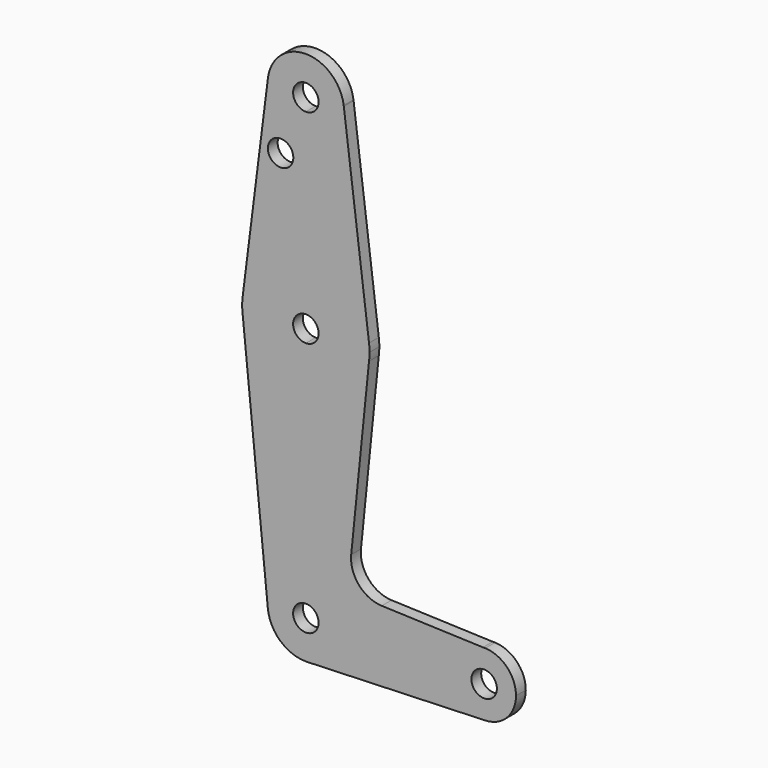
from build123d import *

# Parameters (mm, degrees)
F0_R     = 3.175
F1_DEPTH = 3.048


with BuildPart() as f1:
    # F0 (on Front) → F1 (new body)
    with BuildSketch(Plane.XZ):
        with BuildLine():
            ThreePointArc((-44.0140897063, 76.3003891978), (-41.6811967841, 68.8454978914), (-34.556706045, 65.6424640973))
            ThreePointArc((-34.556706045, 65.6424640973), (-27.8215139542, 68.4322720065), (-25.031706045, 75.1674640973))
            ThreePointArc((-25.031706045, 75.1674640973), (-25.0473120273, 75.7124874144), (-25.0940788358, 76.2557247737))
            Line((-25.0940788358, 76.2557247737), (-25.1198833338, 76.4605233061))
            ThreePointArc((-25.1198833338, 76.4605233061), (-34.637430399, 84.6921220218), (-44.0140897063, 76.3003891978))
        make_face()
        with BuildLine():
            ThreePointArc((-31.381706045, 75.1674640973), (-32.3116420147, 72.922400067), (-34.556706045, 71.9924640973))
            ThreePointArc((-34.556706045, 71.9924640973), (-36.8017700753, 77.4125281275), (-31.381706045, 75.1674640973))
        make_face(mode=Mode.SUBTRACT)
        with BuildLine():
            ThreePointArc((-25.031706045, 75.1674640973), (-27.8215139542, 68.4322720065), (-34.556706045, 65.6424640973))
            Line((-34.556706045, 65.6424640973), (-34.556706045, 40.2424640973))
            ThreePointArc((-34.556706045, 40.2424640973), (-24.0564015073, 36.2737325982), (-18.8062247641, 26.3518946002))
            Line((-18.8062247637, 26.3518946002), (-25.0940788358, 76.2557247737))
            ThreePointArc((-25.0940788358, 76.2557247737), (-25.0473120273, 75.7124874144), (-25.031706045, 75.1674640973))
        make_face()
        with BuildLine():
            Line((-34.556706045, 40.2424640973), (-34.556706045, 65.6424640973))
            ThreePointArc((-34.556706045, 65.6424640973), (-41.6811967841, 68.8454978914), (-44.0140897063, 76.3003891978))
            Line((-44.0140897063, 76.3003891978), (-50.3071873259, 26.3518946002))
            ThreePointArc((-50.3071873259, 26.3518946002), (-45.0570105826, 36.2737325982), (-34.556706045, 40.2424640973))
        make_face()
        with Locations((-40.8553592861, 60.8926640973)):
            Circle(F0_R, mode=Mode.SUBTRACT)
        with BuildLine():
            ThreePointArc((-18.8062247641, 26.3518946002), (-24.0564015073, 36.2737325982), (-34.556706045, 40.2424640973))
            Line((-34.556706045, 40.2424640973), (-34.556706045, 27.5424640973))
            ThreePointArc((-34.556706045, 27.5424640973), (-32.3116420147, 26.6125281275), (-31.381706045, 24.3674640973))
            ThreePointArc((-31.381706045, 24.3674640973), (-32.3116420147, 22.122400067), (-34.556706045, 21.1924640973))
            Line((-34.556706045, 21.1924640973), (-34.556706045, 18.0174640973))
            Line((-34.556706045, 18.0174640973), (-34.556706045, 8.4924640973))
            ThreePointArc((-34.556706045, 8.4924640973), (-24.0564015074, 12.4611955963), (-18.8062247641, 22.3830335943))
            ThreePointArc((-18.8062247641, 22.3830335943), (-18.7128663062, 23.3732974447), (-18.681706045, 24.3674640973))
            ThreePointArc((-18.681706045, 24.3674640973), (-18.7128663062, 25.3616307498), (-18.8062247641, 26.3518946002))
        make_face()
        with BuildLine():
            Line((-34.556706045, 27.5424640973), (-34.556706045, 40.2424640973))
            ThreePointArc((-34.556706045, 40.2424640973), (-45.0570105826, 36.2737325982), (-50.3071873259, 26.3518946002))
            ThreePointArc((-50.3071873259, 26.3518946002), (-50.431706045, 24.3674640973), (-50.3071873259, 22.3830335943))
            ThreePointArc((-50.3071873259, 22.3830335943), (-45.0570105826, 12.4611955963), (-34.556706045, 8.4924640973))
            Line((-34.556706045, 8.4924640973), (-34.556706045, 18.0174640973))
            Line((-34.556706045, 18.0174640973), (-34.556706045, 21.1924640973))
            ThreePointArc((-34.556706045, 21.1924640973), (-37.731706045, 24.3674640973), (-34.556706045, 27.5424640973))
        make_face()
        with BuildLine():
            ThreePointArc((-25.0940788358, 76.2557247737), (-25.1064262908, 76.3581939436), (-25.1198833338, 76.4605233061))
            Line((-25.1198833338, 76.4605233061), (-25.0940788358, 76.2557247737))
        make_face()
        with BuildLine():
            ThreePointArc((-34.556706045, 8.4924640973), (-45.0570105826, 12.4611955963), (-50.3071873259, 22.3830335943))
            Line((-50.3071873259, 22.3830335943), (-44.0340376046, -40.0842772066))
            ThreePointArc((-44.0340376046, -40.0842772066), (-41.6203793429, -32.7426889139), (-34.556706045, -29.6075359027))
            Line((-34.556706045, -29.6075359027), (-34.556706045, 8.4924640973))
        make_face()
        with BuildLine():
            Line((-23.2517691998, -21.5445256331), (-18.8062247641, 22.3830335943))
            ThreePointArc((-18.8062247641, 22.3830335943), (-24.0564015074, 12.4611955963), (-34.556706045, 8.4924640973))
            Line((-34.556706045, 8.4924640973), (-34.556706045, -29.6075359027))
            ThreePointArc((-34.556706045, -29.6075359027), (-27.8215139542, -32.3973438119), (-25.031706045, -39.1325359027))
            Line((-25.031706045, -39.1325359027), (1.955793955, -39.1325359027))
            ThreePointArc((1.955793955, -39.1325359027), (4.1813614508, -33.6209360155), (9.6100259719, -31.2000920485))
            Line((9.6100259719, -31.2000920485), (-15.6284519691, -30.2900475123))
            ThreePointArc((-15.6284519691, -30.2900475123), (-21.3349491612, -27.5689839523), (-23.2517691998, -21.5445256331))
        make_face()
        with BuildLine():
            ThreePointArc((-34.556706045, -29.6075359027), (-41.6203793429, -32.7426889139), (-44.0340376046, -40.0842772066))
            ThreePointArc((-44.0340376046, -40.0842772066), (-40.8762185007, -46.259203239), (-34.3678770176, -48.6556639917))
            Line((-34.3678770176, -48.6556639917), (-34.0657775121, -48.6448760026))
            ThreePointArc((-34.0657775121, -48.6448760026), (-27.6501251515, -45.6918624964), (-25.031706045, -39.1325359027))
            ThreePointArc((-25.031706045, -39.1325359027), (-27.8215139542, -32.3973438119), (-34.556706045, -29.6075359027))
        make_face()
        with Locations((-34.556706045, -39.1325359027)):
            Circle(F0_R, mode=Mode.SUBTRACT)
        with BuildLine():
            Line((-34.0657775121, -48.6448760026), (-34.3678770176, -48.6556639917))
            ThreePointArc((-34.3678770176, -48.6556639917), (-34.2167844653, -48.6514685277), (-34.0657775121, -48.6448760026))
        make_face()
        with BuildLine():
            Line((1.955793955, -39.1325359027), (-25.031706045, -39.1325359027))
            ThreePointArc((-25.031706045, -39.1325359027), (-27.6501251515, -45.6918624964), (-34.0657775121, -48.6448760026))
            Line((-34.0657775121, -48.6448760026), (10.1765619381, -47.0649797569))
            ThreePointArc((10.1765619381, -47.0649797569), (4.3816940678, -44.844468407), (1.955793955, -39.1325359027))
        make_face()
        with BuildLine():
            Line((10.1765619381, -31.2000920485), (9.6100259719, -31.2000920485))
            ThreePointArc((9.6100259719, -31.2000920485), (4.1813614508, -33.6209360155), (1.955793955, -39.1325359027))
            ThreePointArc((1.955793955, -39.1325359027), (4.3816940678, -44.844468407), (10.1765619381, -47.0649797569))
            ThreePointArc((10.1765619381, -47.0649797569), (15.6052264593, -44.64413579), (17.830793955, -39.1325359027))
            ThreePointArc((17.830793955, -39.1325359027), (15.6052264593, -33.6209360155), (10.1765619381, -31.2000920485))
        make_face()
        with BuildLine():
            ThreePointArc((13.068293955, -39.1325359027), (9.893293955, -42.3075359027), (6.718293955, -39.1325359027))
            ThreePointArc((6.718293955, -39.1325359027), (9.893293955, -35.9575359027), (13.068293955, -39.1325359027))
        make_face(mode=Mode.SUBTRACT)
        with BuildLine():
            ThreePointArc((10.1765619381, -31.2000920485), (9.893293955, -31.1950359027), (9.6100259719, -31.2000920485))
            Line((9.6100259719, -31.2000920485), (10.1765619381, -31.2000920485))
        make_face()
    extrude(amount=F1_DEPTH)


solid = f1.part
